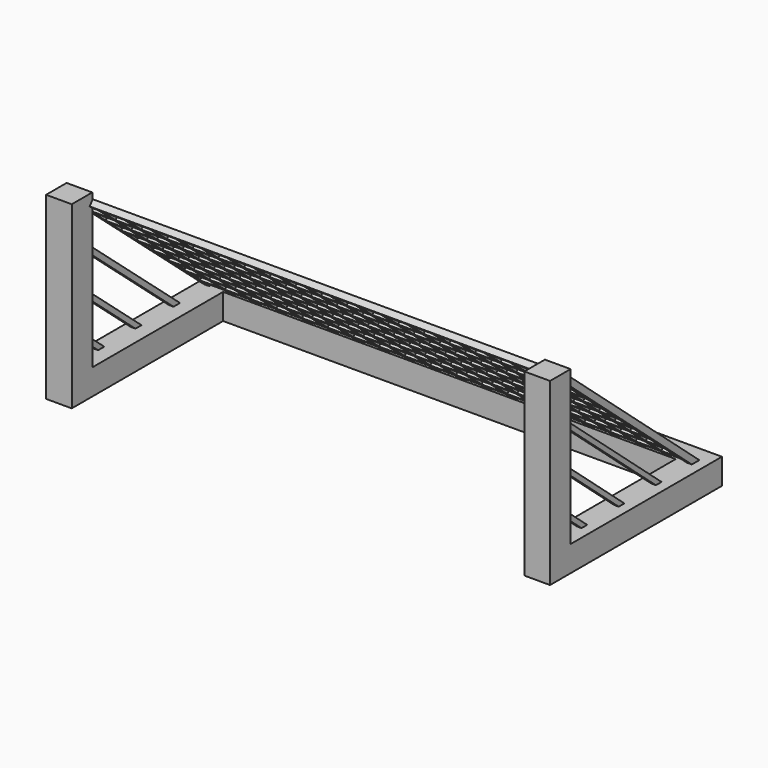
from build123d import *

# Parameters (mm, degrees)
F1_DEPTH  = 6.35
F2_W      = 6.35
F2_H      = 6.35
F3_DEPTH  = 38.1
F6_DEPTH  = 1.143
F9_DEPTH  = 1.143
F11_W     = 5.334
F11_H     = 5.334
F11_H_2   = 3.5931020551
F11_H_3   = 1.016
F6_FACE_W = 1.143
F6_FACE_H = 56.6486936935
F12_DEPTH = 1.524


with BuildPart() as f1:
    # F0 (on Top) → F1 (new body)
    with BuildSketch(Plane.XY):
        Polygon((50.5197048187, -15.1326837182), (50.5197048187, 38.0078162998), (-74.1270426661, 38.0078162998), (-74.1270426661, -15.1326837182), (-67.7770426661, -15.1326837182), (-67.7770426661, 31.6578162998), (44.1697048187, 31.6578162998), (44.1697048187, -15.1326837182), align=None)
    extrude(amount=F1_DEPTH)

    # F2 (on face) → F3 (join)
    with BuildSketch(Plane.XY.offset(6.35)):
        with Locations((-70.9520426661, -11.9576837182)):
            Rectangle(F2_W, F2_H)
        with Locations((47.3447048187, -11.9576837182)):
            Rectangle(F2_W, F2_H)
    extrude(amount=F3_DEPTH)

    # F5 (on offset) → F6 (join)
    with BuildSketch(Plane.YZ.offset(48.006)):
        Polygon((-9.1339582577, 41.9100881401), (32.7389322847, 5.9086717665), (34.6855223179, 5.9086717665), (-9.1339582577, 43.5837246478), align=None)
        Polygon((-9.1339582577, 32.0283599413), (21.2455921631, 5.9086717665), (22.9988135376, 5.9086717665), (-9.1339582577, 33.5357422089), align=None)
        Polygon((-9.1339582577, 22.1466317425), (9.7522520416, 5.9086717665), (11.5054734161, 5.9086717665), (-9.1339582577, 23.6540140101), align=None)
        Polygon((-9.1339582577, 12.2649035437), (-1.7410880799, 5.9086717665), (0.0121332946, 5.9086717665), (-9.1339582577, 13.7722858113), align=None)
    extrude(amount=-F6_DEPTH)

    # F8 (on offset) → F9 (join)
    with BuildSketch(Plane.YZ.offset(-71.374)):
        Polygon((0.1939844375, 5.7016420178), (-9.829059628, 14.2629928478), (-9.8638965472, 12.6560938451), (-1.7220999428, 5.7016420178), align=None)
        Polygon((-9.6198304859, 23.9139639457), (-9.653998672, 22.3379111377), (9.8305055118, 5.7016420178), (11.7019105389, 5.7016420178), (10.6933275238, 6.5631400794), align=None)
        Polygon((-8.5067814216, 31.3980297723), (21.5889913208, 5.7016420178), (23.5961562443, 5.7016420178), (-8.5067814216, 33.1117883325), align=None)
        Polygon((-9.4038207501, 33.8776989011), (-9.4402991091, 32.1950863117), (-8.5067814216, 31.3980297723), (-8.5067814216, 33.1117883325), align=None)
        Polygon((-8.5067814216, 41.672796011), (32.7233087986, 5.7016420178), (34.9420624274, 5.7016420178), (-8.5067814216, 42.7991556316), align=None)
        Polygon((-9.1976194388, 43.3890072934), (-9.2213113404, 42.2961869762), (-8.5067814216, 41.672796011), (-8.5067814216, 42.7991556316), align=None)
    extrude(amount=-F9_DEPTH)

    # F11 (on offset) + F6_face (on face) → F12 (join)
    with BuildSketch(Plane(origin=(0, 17.5483555123, 20.5527455666), x_dir=(1, 0, 0), z_dir=(0, 0.6493336283, 0.7605036746))):
        Polygon((-66.2239300251, 22.0103599131), (-72.5739300251, 22.0103599131), (-72.5739300251, 16.385257858), (-72.5739300251, 10.035257858), (-72.5739300251, -2.664742142), (-72.5739300251, -9.014742142), (-72.5739300251, -15.364742142), (-72.5739300251, -21.714742142), (-72.5739300251, -28.064742142), (-72.5739300251, -34.414742142), (-59.8739300251, -34.414742142), (-52.5079300251, -34.414742142), (-46.1579300251, -34.414742142), (-39.8079300251, -34.414742142), (-33.4579300251, -34.414742142), (-20.7579300251, -34.414742142), (-14.4079300251, -34.414742142), (-8.0579300251, -34.414742142), (-1.7079300251, -34.414742142), (4.6420699749, -34.414742142), (9.9760699749, -34.414742142), (10.9920699749, -34.414742142), (17.3420699749, -34.414742142), (23.6920699749, -34.414742142), (29.0260699749, -34.414742142), (30.0420699749, -34.414742142), (36.3920699749, -34.414742142), (41.7260699749, -34.414742142), (42.7420699749, -34.414742142), (47.2916096015, -34.414742142), (47.5456096015, -34.414742142), (47.7996096015, -34.414742142), (47.7996096015, 16.385257858), (47.7996096015, 22.0103599131), (42.7420699749, 22.0103599131), (41.7260699749, 22.0103599131), (36.3920699749, 22.0103599131), (35.3760699749, 22.0103599131), (30.0420699749, 22.0103599131), (29.0260699749, 22.0103599131), (23.6920699749, 22.0103599131), (22.6760699749, 22.0103599131), (17.3420699749, 22.0103599131), (16.3260699749, 22.0103599131), (10.9920699749, 22.0103599131), (9.9760699749, 22.0103599131), (4.6420699749, 22.0103599131), (3.6260699749, 22.0103599131), (-1.7079300251, 22.0103599131), (-2.7239300251, 22.0103599131), (-8.0579300251, 22.0103599131), (-9.0739300251, 22.0103599131), (-15.4239300251, 22.0103599131), (-21.7739300251, 22.0103599131), (-27.1079300251, 22.0103599131), (-34.4739300251, 22.0103599131), (-40.8239300251, 22.0103599131), (-47.1739300251, 22.0103599131), (-52.5079300251, 22.0103599131), (-53.5239300251, 22.0103599131), (-58.8579300251, 22.0103599131), (-59.8739300251, 22.0103599131), (-65.2079300251, 22.0103599131), align=None)
        with Locations((-68.8909300251, -30.731742142)):
            Rectangle(F11_W, F11_H, mode=Mode.SUBTRACT)
        with Locations((-62.5409300251, -30.731742142)):
            Rectangle(F11_W, F11_H, mode=Mode.SUBTRACT)
        with Locations((-56.1909300251, -30.731742142)):
            Rectangle(F11_W, F11_H, mode=Mode.SUBTRACT)
        with Locations((-49.8409300251, -30.731742142)):
            Rectangle(F11_W, F11_H, mode=Mode.SUBTRACT)
        with Locations((-43.4909300251, -30.731742142)):
            Rectangle(F11_W, F11_H, mode=Mode.SUBTRACT)
        with Locations((-68.8909300251, -24.381742142)):
            Rectangle(F11_W, F11_H, mode=Mode.SUBTRACT)
        with Locations((-62.5409300251, -24.381742142)):
            Rectangle(F11_W, F11_H, mode=Mode.SUBTRACT)
        with Locations((-56.1909300251, -24.381742142)):
            Rectangle(F11_W, F11_H, mode=Mode.SUBTRACT)
        with Locations((-49.8409300251, -24.381742142)):
            Rectangle(F11_W, F11_H, mode=Mode.SUBTRACT)
        with Locations((-43.4909300251, -24.381742142)):
            Rectangle(F11_W, F11_H, mode=Mode.SUBTRACT)
        with Locations((-37.1409300251, -30.731742142)):
            Rectangle(F11_W, F11_H, mode=Mode.SUBTRACT)
        with Locations((-30.7909300251, -30.731742142)):
            Rectangle(F11_W, F11_H, mode=Mode.SUBTRACT)
        with Locations((-24.4409300251, -30.731742142)):
            Rectangle(F11_W, F11_H, mode=Mode.SUBTRACT)
        with Locations((-18.0909300251, -30.731742142)):
            Rectangle(F11_W, F11_H, mode=Mode.SUBTRACT)
        with Locations((-37.1409300251, -24.381742142)):
            Rectangle(F11_W, F11_H, mode=Mode.SUBTRACT)
        with Locations((-30.7909300251, -24.381742142)):
            Rectangle(F11_W, F11_H, mode=Mode.SUBTRACT)
        with Locations((-24.4409300251, -24.381742142)):
            Rectangle(F11_W, F11_H, mode=Mode.SUBTRACT)
        with Locations((-18.0909300251, -24.381742142)):
            Rectangle(F11_W, F11_H, mode=Mode.SUBTRACT)
        with Locations((-68.8909300251, -18.031742142)):
            Rectangle(F11_W, F11_H, mode=Mode.SUBTRACT)
        with Locations((-62.5409300251, -18.031742142)):
            Rectangle(F11_W, F11_H, mode=Mode.SUBTRACT)
        with Locations((-56.1909300251, -18.031742142)):
            Rectangle(F11_W, F11_H, mode=Mode.SUBTRACT)
        with Locations((-49.8409300251, -18.031742142)):
            Rectangle(F11_W, F11_H, mode=Mode.SUBTRACT)
        with Locations((-43.4909300251, -18.031742142)):
            Rectangle(F11_W, F11_H, mode=Mode.SUBTRACT)
        with Locations((-68.8909300251, -11.681742142)):
            Rectangle(F11_W, F11_H, mode=Mode.SUBTRACT)
        with Locations((-62.5409300251, -11.681742142)):
            Rectangle(F11_W, F11_H, mode=Mode.SUBTRACT)
        with Locations((-56.1909300251, -11.681742142)):
            Rectangle(F11_W, F11_H, mode=Mode.SUBTRACT)
        with Locations((-49.8409300251, -11.681742142)):
            Rectangle(F11_W, F11_H, mode=Mode.SUBTRACT)
        with Locations((-43.4909300251, -11.681742142)):
            Rectangle(F11_W, F11_H, mode=Mode.SUBTRACT)
        with Locations((-37.1409300251, -18.031742142)):
            Rectangle(F11_W, F11_H, mode=Mode.SUBTRACT)
        with Locations((-30.7909300251, -18.031742142)):
            Rectangle(F11_W, F11_H, mode=Mode.SUBTRACT)
        with Locations((-24.4409300251, -18.031742142)):
            Rectangle(F11_W, F11_H, mode=Mode.SUBTRACT)
        with Locations((-18.0909300251, -18.031742142)):
            Rectangle(F11_W, F11_H, mode=Mode.SUBTRACT)
        with Locations((-37.1409300251, -11.681742142)):
            Rectangle(F11_W, F11_H, mode=Mode.SUBTRACT)
        with Locations((-30.7909300251, -11.681742142)):
            Rectangle(F11_W, F11_H, mode=Mode.SUBTRACT)
        with Locations((-24.4409300251, -11.681742142)):
            Rectangle(F11_W, F11_H, mode=Mode.SUBTRACT)
        with Locations((-18.0909300251, -11.681742142)):
            Rectangle(F11_W, F11_H, mode=Mode.SUBTRACT)
        with Locations((-11.7409300251, -30.731742142)):
            Rectangle(F11_W, F11_H, mode=Mode.SUBTRACT)
        with Locations((-5.3909300251, -30.731742142)):
            Rectangle(F11_W, F11_H, mode=Mode.SUBTRACT)
        with Locations((0.9590699749, -30.731742142)):
            Rectangle(F11_W, F11_H, mode=Mode.SUBTRACT)
        with Locations((7.3090699749, -30.731742142)):
            Rectangle(F11_W, F11_H, mode=Mode.SUBTRACT)
        with Locations((13.6590699749, -30.731742142)):
            Rectangle(F11_W, F11_H, mode=Mode.SUBTRACT)
        with Locations((-11.7409300251, -24.381742142)):
            Rectangle(F11_W, F11_H, mode=Mode.SUBTRACT)
        with Locations((-5.3909300251, -24.381742142)):
            Rectangle(F11_W, F11_H, mode=Mode.SUBTRACT)
        with Locations((0.9590699749, -24.381742142)):
            Rectangle(F11_W, F11_H, mode=Mode.SUBTRACT)
        with Locations((7.3090699749, -24.381742142)):
            Rectangle(F11_W, F11_H, mode=Mode.SUBTRACT)
        with Locations((13.6590699749, -24.381742142)):
            Rectangle(F11_W, F11_H, mode=Mode.SUBTRACT)
        with Locations((20.0090699749, -30.731742142)):
            Rectangle(F11_W, F11_H, mode=Mode.SUBTRACT)
        with Locations((26.3590699749, -30.731742142)):
            Rectangle(F11_W, F11_H, mode=Mode.SUBTRACT)
        with Locations((32.7090699749, -30.731742142)):
            Rectangle(F11_W, F11_H, mode=Mode.SUBTRACT)
        with Locations((39.0590699749, -30.731742142)):
            Rectangle(F11_W, F11_H, mode=Mode.SUBTRACT)
        Polygon((42.7420699749, -33.398742142), (42.7420699749, -28.064742142), (46.7836096015, -28.064742142), (46.7836096015, -33.398742142), (46.5296096015, -33.398742142), (46.2756096015, -33.398742142), align=None, mode=Mode.SUBTRACT)
        with Locations((20.0090699749, -24.381742142)):
            Rectangle(F11_W, F11_H, mode=Mode.SUBTRACT)
        with Locations((26.3590699749, -24.381742142)):
            Rectangle(F11_W, F11_H, mode=Mode.SUBTRACT)
        with Locations((32.7090699749, -24.381742142)):
            Rectangle(F11_W, F11_H, mode=Mode.SUBTRACT)
        with Locations((39.0590699749, -24.381742142)):
            Rectangle(F11_W, F11_H, mode=Mode.SUBTRACT)
        Polygon((46.2756096015, -27.048742142), (42.7420699749, -27.048742142), (42.7420699749, -21.714742142), (46.7836096015, -21.714742142), (46.7836096015, -27.048742142), (46.5296096015, -27.048742142), align=None, mode=Mode.SUBTRACT)
        with Locations((-11.7409300251, -18.031742142)):
            Rectangle(F11_W, F11_H, mode=Mode.SUBTRACT)
        with Locations((-5.3909300251, -18.031742142)):
            Rectangle(F11_W, F11_H, mode=Mode.SUBTRACT)
        with Locations((0.9590699749, -18.031742142)):
            Rectangle(F11_W, F11_H, mode=Mode.SUBTRACT)
        with Locations((7.3090699749, -18.031742142)):
            Rectangle(F11_W, F11_H, mode=Mode.SUBTRACT)
        with Locations((13.6590699749, -18.031742142)):
            Rectangle(F11_W, F11_H, mode=Mode.SUBTRACT)
        with Locations((-11.7409300251, -11.681742142)):
            Rectangle(F11_W, F11_H, mode=Mode.SUBTRACT)
        with Locations((-5.3909300251, -11.681742142)):
            Rectangle(F11_W, F11_H, mode=Mode.SUBTRACT)
        with Locations((0.9590699749, -11.681742142)):
            Rectangle(F11_W, F11_H, mode=Mode.SUBTRACT)
        with Locations((7.3090699749, -11.681742142)):
            Rectangle(F11_W, F11_H, mode=Mode.SUBTRACT)
        with Locations((13.6590699749, -11.681742142)):
            Rectangle(F11_W, F11_H, mode=Mode.SUBTRACT)
        with Locations((20.0090699749, -18.031742142)):
            Rectangle(F11_W, F11_H, mode=Mode.SUBTRACT)
        with Locations((26.3590699749, -18.031742142)):
            Rectangle(F11_W, F11_H, mode=Mode.SUBTRACT)
        with Locations((32.7090699749, -18.031742142)):
            Rectangle(F11_W, F11_H, mode=Mode.SUBTRACT)
        with Locations((39.0590699749, -18.031742142)):
            Rectangle(F11_W, F11_H, mode=Mode.SUBTRACT)
        Polygon((46.2756096015, -20.698742142), (42.7420699749, -20.698742142), (42.7420699749, -15.364742142), (46.7836096015, -15.364742142), (46.7836096015, -20.698742142), (46.5296096015, -20.698742142), align=None, mode=Mode.SUBTRACT)
        with Locations((20.0090699749, -11.681742142)):
            Rectangle(F11_W, F11_H, mode=Mode.SUBTRACT)
        with Locations((26.3590699749, -11.681742142)):
            Rectangle(F11_W, F11_H, mode=Mode.SUBTRACT)
        with Locations((32.7090699749, -11.681742142)):
            Rectangle(F11_W, F11_H, mode=Mode.SUBTRACT)
        with Locations((39.0590699749, -11.681742142)):
            Rectangle(F11_W, F11_H, mode=Mode.SUBTRACT)
        Polygon((46.7836096015, -9.014742142), (46.7836096015, -14.348742142), (46.5296096015, -14.348742142), (46.2756096015, -14.348742142), (42.7420699749, -14.348742142), (42.7420699749, -9.014742142), align=None, mode=Mode.SUBTRACT)
        with Locations((-68.8909300251, -5.331742142)):
            Rectangle(F11_W, F11_H, mode=Mode.SUBTRACT)
        with Locations((-62.5409300251, -5.331742142)):
            Rectangle(F11_W, F11_H, mode=Mode.SUBTRACT)
        with Locations((-56.1909300251, -5.331742142)):
            Rectangle(F11_W, F11_H, mode=Mode.SUBTRACT)
        with Locations((-49.8409300251, -5.331742142)):
            Rectangle(F11_W, F11_H, mode=Mode.SUBTRACT)
        with Locations((-43.4909300251, -5.331742142)):
            Rectangle(F11_W, F11_H, mode=Mode.SUBTRACT)
        with Locations((-68.8909300251, 1.018257858)):
            Rectangle(F11_W, F11_H, mode=Mode.SUBTRACT)
        with Locations((-62.5409300251, 1.018257858)):
            Rectangle(F11_W, F11_H, mode=Mode.SUBTRACT)
        with Locations((-68.8909300251, 7.368257858)):
            Rectangle(F11_W, F11_H, mode=Mode.SUBTRACT)
        with Locations((-62.5409300251, 7.368257858)):
            Rectangle(F11_W, F11_H, mode=Mode.SUBTRACT)
        with Locations((-56.1909300251, 1.018257858)):
            Rectangle(F11_W, F11_H, mode=Mode.SUBTRACT)
        with Locations((-49.8409300251, 1.018257858)):
            Rectangle(F11_W, F11_H, mode=Mode.SUBTRACT)
        with Locations((-43.4909300251, 1.018257858)):
            Rectangle(F11_W, F11_H, mode=Mode.SUBTRACT)
        with Locations((-56.1909300251, 7.368257858)):
            Rectangle(F11_W, F11_H, mode=Mode.SUBTRACT)
        with Locations((-49.8409300251, 7.368257858)):
            Rectangle(F11_W, F11_H, mode=Mode.SUBTRACT)
        with Locations((-43.4909300251, 7.368257858)):
            Rectangle(F11_W, F11_H, mode=Mode.SUBTRACT)
        with Locations((-37.1409300251, -5.331742142)):
            Rectangle(F11_W, F11_H, mode=Mode.SUBTRACT)
        with Locations((-30.7909300251, -5.331742142)):
            Rectangle(F11_W, F11_H, mode=Mode.SUBTRACT)
        with Locations((-24.4409300251, -5.331742142)):
            Rectangle(F11_W, F11_H, mode=Mode.SUBTRACT)
        with Locations((-18.0909300251, -5.331742142)):
            Rectangle(F11_W, F11_H, mode=Mode.SUBTRACT)
        with Locations((-37.1409300251, 1.018257858)):
            Rectangle(F11_W, F11_H, mode=Mode.SUBTRACT)
        with Locations((-30.7909300251, 1.018257858)):
            Rectangle(F11_W, F11_H, mode=Mode.SUBTRACT)
        with Locations((-37.1409300251, 7.368257858)):
            Rectangle(F11_W, F11_H, mode=Mode.SUBTRACT)
        with Locations((-30.7909300251, 7.368257858)):
            Rectangle(F11_W, F11_H, mode=Mode.SUBTRACT)
        with Locations((-24.4409300251, 1.018257858)):
            Rectangle(F11_W, F11_H, mode=Mode.SUBTRACT)
        with Locations((-18.0909300251, 1.018257858)):
            Rectangle(F11_W, F11_H, mode=Mode.SUBTRACT)
        with Locations((-24.4409300251, 7.368257858)):
            Rectangle(F11_W, F11_H, mode=Mode.SUBTRACT)
        with Locations((-18.0909300251, 7.368257858)):
            Rectangle(F11_W, F11_H, mode=Mode.SUBTRACT)
        with Locations((-68.8909300251, 13.718257858)):
            Rectangle(F11_W, F11_H, mode=Mode.SUBTRACT)
        with Locations((-62.5409300251, 13.718257858)):
            Rectangle(F11_W, F11_H, mode=Mode.SUBTRACT)
        with Locations((-56.1909300251, 13.718257858)):
            Rectangle(F11_W, F11_H, mode=Mode.SUBTRACT)
        with Locations((-49.8409300251, 13.718257858)):
            Rectangle(F11_W, F11_H, mode=Mode.SUBTRACT)
        with Locations((-43.4909300251, 13.718257858)):
            Rectangle(F11_W, F11_H, mode=Mode.SUBTRACT)
        with Locations((-68.8909300251, 19.1978088856)):
            Rectangle(F11_W, F11_H_2, mode=Mode.SUBTRACT)
        with Locations((-62.5409300251, 19.1978088856)):
            Rectangle(F11_W, F11_H_2, mode=Mode.SUBTRACT)
        with Locations((-56.1909300251, 19.1978088856)):
            Rectangle(F11_W, F11_H_2, mode=Mode.SUBTRACT)
        with Locations((-49.8409300251, 19.1978088856)):
            Rectangle(F11_W, F11_H_2, mode=Mode.SUBTRACT)
        with Locations((-43.4909300251, 19.1978088856)):
            Rectangle(F11_W, F11_H_2, mode=Mode.SUBTRACT)
        with Locations((-37.1409300251, 13.718257858)):
            Rectangle(F11_W, F11_H, mode=Mode.SUBTRACT)
        with Locations((-30.7909300251, 13.718257858)):
            Rectangle(F11_W, F11_H, mode=Mode.SUBTRACT)
        with Locations((-24.4409300251, 13.718257858)):
            Rectangle(F11_W, F11_H, mode=Mode.SUBTRACT)
        with Locations((-18.0909300251, 13.718257858)):
            Rectangle(F11_W, F11_H, mode=Mode.SUBTRACT)
        Polygon((-39.8079300251, 20.9943599131), (-34.4739300251, 20.9708157927), (-34.4739300251, 17.401257858), (-39.8079300251, 17.401257858), align=None, mode=Mode.SUBTRACT)
        with Locations((-30.7909300251, 19.1978088856)):
            Rectangle(F11_W, F11_H_2, mode=Mode.SUBTRACT)
        with Locations((-24.4409300251, 19.1978088856)):
            Rectangle(F11_W, F11_H_2, mode=Mode.SUBTRACT)
        with Locations((-18.0909300251, 19.1978088856)):
            Rectangle(F11_W, F11_H_2, mode=Mode.SUBTRACT)
        with Locations((-11.7409300251, -5.331742142)):
            Rectangle(F11_W, F11_H, mode=Mode.SUBTRACT)
        with Locations((-5.3909300251, -5.331742142)):
            Rectangle(F11_W, F11_H, mode=Mode.SUBTRACT)
        with Locations((0.9590699749, -5.331742142)):
            Rectangle(F11_W, F11_H, mode=Mode.SUBTRACT)
        with Locations((7.3090699749, -5.331742142)):
            Rectangle(F11_W, F11_H, mode=Mode.SUBTRACT)
        with Locations((13.6590699749, -5.331742142)):
            Rectangle(F11_W, F11_H, mode=Mode.SUBTRACT)
        with Locations((-11.7409300251, 1.018257858)):
            Rectangle(F11_W, F11_H, mode=Mode.SUBTRACT)
        with Locations((-5.3909300251, 1.018257858)):
            Rectangle(F11_W, F11_H, mode=Mode.SUBTRACT)
        with Locations((0.9590699749, 1.018257858)):
            Rectangle(F11_W, F11_H, mode=Mode.SUBTRACT)
        with Locations((-11.7409300251, 7.368257858)):
            Rectangle(F11_W, F11_H, mode=Mode.SUBTRACT)
        with Locations((-5.3909300251, 7.368257858)):
            Rectangle(F11_W, F11_H, mode=Mode.SUBTRACT)
        with Locations((0.9590699749, 7.368257858)):
            Rectangle(F11_W, F11_H, mode=Mode.SUBTRACT)
        with Locations((7.3090699749, 1.018257858)):
            Rectangle(F11_W, F11_H, mode=Mode.SUBTRACT)
        with Locations((13.6590699749, 1.018257858)):
            Rectangle(F11_W, F11_H, mode=Mode.SUBTRACT)
        with Locations((7.3090699749, 7.368257858)):
            Rectangle(F11_W, F11_H, mode=Mode.SUBTRACT)
        with Locations((13.6590699749, 7.368257858)):
            Rectangle(F11_W, F11_H, mode=Mode.SUBTRACT)
        with Locations((20.0090699749, -5.331742142)):
            Rectangle(F11_W, F11_H, mode=Mode.SUBTRACT)
        with Locations((26.3590699749, -5.331742142)):
            Rectangle(F11_W, F11_H, mode=Mode.SUBTRACT)
        with Locations((32.7090699749, -5.331742142)):
            Rectangle(F11_W, F11_H, mode=Mode.SUBTRACT)
        Polygon((42.7420699749, -2.664742142), (46.7836096015, -2.664742142), (46.7836096015, -7.998742142), (46.5296096015, -7.998742142), (46.2756096015, -7.998742142), (42.7420699749, -7.998742142), align=None, mode=Mode.SUBTRACT)
        Polygon((41.7260699749, -2.664742142), (41.7260699749, -7.998742142), (36.3920699749, -7.998742142), (36.3920699749, -2.664742142), (36.3920699749, -1.648742142), (36.3920699749, 3.685257858), (41.7260699749, 3.685257858), (41.7260699749, -1.648742142), align=None, mode=Mode.SUBTRACT)
        with Locations((20.0090699749, 1.018257858)):
            Rectangle(F11_W, F11_H, mode=Mode.SUBTRACT)
        with Locations((26.3590699749, 1.018257858)):
            Rectangle(F11_W, F11_H, mode=Mode.SUBTRACT)
        with Locations((32.7090699749, 1.018257858)):
            Rectangle(F11_W, F11_H, mode=Mode.SUBTRACT)
        with Locations((20.0090699749, 7.368257858)):
            Rectangle(F11_W, F11_H, mode=Mode.SUBTRACT)
        with Locations((26.3590699749, 7.368257858)):
            Rectangle(F11_W, F11_H, mode=Mode.SUBTRACT)
        with Locations((32.7090699749, 7.368257858)):
            Rectangle(F11_W, F11_H, mode=Mode.SUBTRACT)
        Polygon((42.7420699749, 3.685257858), (46.7836096015, 3.685257858), (46.7836096015, -1.648742142), (46.5296096015, -1.648742142), (46.2756096015, -1.648742142), (42.7420699749, -1.648742142), align=None, mode=Mode.SUBTRACT)
        with Locations((39.0590699749, 7.368257858)):
            Rectangle(F11_W, F11_H, mode=Mode.SUBTRACT)
        Polygon((42.7420699749, 10.035257858), (46.7836096015, 10.035257858), (46.7836096015, 4.701257858), (46.5296096015, 4.701257858), (46.2756096015, 4.701257858), (42.7420699749, 4.701257858), align=None, mode=Mode.SUBTRACT)
        with Locations((-11.7409300251, 13.718257858)):
            Rectangle(F11_W, F11_H, mode=Mode.SUBTRACT)
        with Locations((-5.3909300251, 13.718257858)):
            Rectangle(F11_W, F11_H, mode=Mode.SUBTRACT)
        with Locations((0.9590699749, 13.718257858)):
            Rectangle(F11_W, F11_H, mode=Mode.SUBTRACT)
        with Locations((7.3090699749, 13.718257858)):
            Rectangle(F11_W, F11_H, mode=Mode.SUBTRACT)
        with Locations((13.6590699749, 13.718257858)):
            Rectangle(F11_W, F11_H, mode=Mode.SUBTRACT)
        with Locations((-11.7409300251, 19.1978088856)):
            Rectangle(F11_W, F11_H_2, mode=Mode.SUBTRACT)
        with Locations((-5.3909300251, 19.1978088856)):
            Rectangle(F11_W, F11_H_2, mode=Mode.SUBTRACT)
        with Locations((0.9590699749, 19.1978088856)):
            Rectangle(F11_W, F11_H_2, mode=Mode.SUBTRACT)
        with Locations((7.3090699749, 19.1978088856)):
            Rectangle(F11_W, F11_H_2, mode=Mode.SUBTRACT)
        with Locations((13.6590699749, 19.1978088856)):
            Rectangle(F11_W, F11_H_2, mode=Mode.SUBTRACT)
        with Locations((20.0090699749, 13.718257858)):
            Rectangle(F11_W, F11_H, mode=Mode.SUBTRACT)
        with Locations((26.3590699749, 13.718257858)):
            Rectangle(F11_W, F11_H, mode=Mode.SUBTRACT)
        with Locations((32.7090699749, 13.718257858)):
            Rectangle(F11_W, F11_H, mode=Mode.SUBTRACT)
        with Locations((39.0590699749, 13.718257858)):
            Rectangle(F11_W, F11_H, mode=Mode.SUBTRACT)
        Polygon((42.7420699749, 16.385257858), (46.7836096015, 16.385257858), (46.7836096015, 11.051257858), (46.5296096015, 11.051257858), (46.2756096015, 11.051257858), (42.7420699749, 11.051257858), align=None, mode=Mode.SUBTRACT)
        with Locations((20.0090699749, 19.1978088856)):
            Rectangle(F11_W, F11_H_2, mode=Mode.SUBTRACT)
        with Locations((26.3590699749, 19.1978088856)):
            Rectangle(F11_W, F11_H_2, mode=Mode.SUBTRACT)
        with Locations((32.7090699749, 19.1978088856)):
            Rectangle(F11_W, F11_H_2, mode=Mode.SUBTRACT)
        with Locations((39.0590699749, 19.1978088856)):
            Rectangle(F11_W, F11_H_2, mode=Mode.SUBTRACT)
        Polygon((46.7836096015, 20.9943599131), (46.7836096015, 17.401257858), (46.5296096015, 17.401257858), (46.2756096015, 17.401257858), (42.7420699749, 17.401257858), (42.7420699749, 20.9943599131), align=None, mode=Mode.SUBTRACT)
        with Locations((39.0590699749, -2.156742142)):
            Rectangle(F11_W, F11_H_3)
    with BuildSketch(Plane(origin=(47.4345, 12.6947670529, 24.8158531531), x_dir=(-1, 0, 0), z_dir=(0, 0.6519427704, 0.7582681743))):
        Rectangle(F6_FACE_W, F6_FACE_H)
    extrude(amount=-F12_DEPTH, dir=(0, 0.6493336283, 0.7605036746))


solid = f1.part
